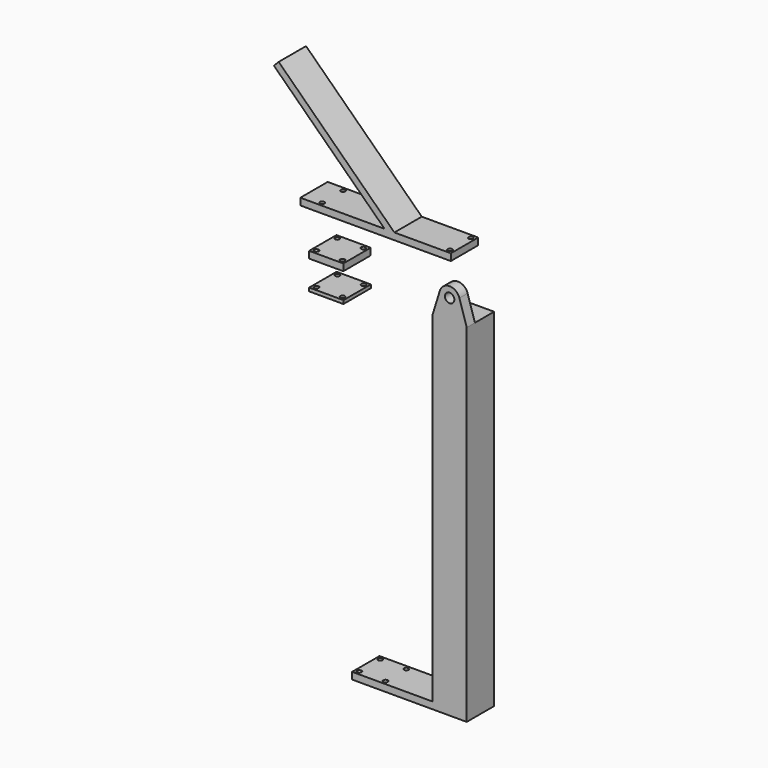
from build123d import *

# Parameters (mm, degrees)
F1_DEPTH  = 63.5
F3_R      = 8.3312
F4_DEPTH  = 25.401
F5_R      = 17.526
F6_DEPTH  = 38.1
F7_W      = 558.8
F7_H      = 25.4
F8_DEPTH  = 63.5
F9_R      = 8.3312
F10_DEPTH = 1512.3801652679
F12_DEPTH = 63.5
F13_W     = 127
F13_H     = 25.4
F14_DEPTH = 63.5
F13_H_2   = 12.7
F15_R     = 8.3312
F16_DEPTH = 161.036
F17_R     = 8.3312
F18_DEPTH = 25.4


with BuildPart() as f1:
    # F0 (on Front) → F1 (new body, symmetric)
    with BuildSketch(Plane.XZ):
        Polygon((0, 0), (-298.45, 0), (-298.45, -25.4), (127, -25.4), (127, 1263.65), (0, 1263.65), align=None)
    extrude(amount=F1_DEPTH, both=True)

    # F3 (on face) → F4 (cut, through all)
    with BuildSketch(Plane.XY):
        with Locations((-283.337, -48.387)):
            Circle(F3_R)
        with Locations((-186.563, -48.387)):
            Circle(F3_R)
        with Locations((-186.563, 48.387)):
            Circle(F3_R)
        with Locations((-283.337, 48.387)):
            Circle(F3_R)
    extrude(amount=-F4_DEPTH, mode=Mode.SUBTRACT)

    # F5 (on face) → F6 (join)
    with BuildSketch(Plane.XZ.offset(63.5)):
        with BuildLine():
            Line((127, 1263.65), (99.8927548056, 1351.1272956713))
            ThreePointArc((99.8927548056, 1351.1272956713), (63.5, 1377.95), (27.1072451944, 1351.1272956713))
            Line((27.1072451944, 1351.1272956713), (0, 1263.65))
            Line((0, 1263.65), (127, 1263.65))
        make_face()
        with Locations((63.5, 1339.85)):
            Circle(F5_R, mode=Mode.SUBTRACT)
    extrude(amount=-F6_DEPTH)


with BuildPart() as f8:
    # F7 (on Front) → F8 (new body, symmetric)
    with BuildSketch(Plane.XZ):
        with Locations((-211.3800937393, 1474.2791652679)):
            Rectangle(F7_W, F7_H)
    extrude(amount=F8_DEPTH, both=True)

    # F9 (on face) → F10 (cut, through all)
    with BuildSketch(Plane.XY.offset(1486.9791652679)):
        with Locations((-421.6920937393, -48.387)):
            Circle(F9_R)
        with Locations((52.9069062607, -48.387)):
            Circle(F9_R)
        with Locations((52.9069062607, 48.387)):
            Circle(F9_R)
        with Locations((-421.6920937393, 48.387)):
            Circle(F9_R)
    extrude(amount=-F10_DEPTH, mode=Mode.SUBTRACT)

    # F11 (on Front) → F12 (join, symmetric)
    with BuildSketch(Plane.XZ):
        Polygon((-571.1126877134, 1904.7805414024), (-588.8206813259, 1886.5710119681), (-151.7919749022, 1461.5791652679), (-134.0839812896, 1479.7886947023), align=None)
    extrude(amount=F12_DEPTH, both=True)


with BuildPart() as f14:
    # F13 (on Front) → F14 (new body, symmetric)
    with BuildSketch(Plane.XZ):
        with Locations((-394.595220685, 1311.2375096946)):
            Rectangle(F13_W, F13_H)
    extrude(amount=F14_DEPTH, both=True)

    # F15 (on face) → F16 (cut)
    with BuildSketch(Plane.XY.offset(1323.9375096946)):
        with Locations((-442.982220685, -48.387)):
            Circle(F15_R)
        with Locations((-442.982220685, 48.387)):
            Circle(F15_R)
        with Locations((-346.208220685, -48.387)):
            Circle(F15_R)
        with Locations((-346.208220685, 48.387)):
            Circle(F15_R)
    extrude(amount=-F16_DEPTH, mode=Mode.SUBTRACT)


with BuildPart() as f14b:
    # F13 (on Front) → F14, piece 2 (new body, symmetric)
    with BuildSketch(Plane.XZ):
        with Locations((-394.2314853668, 1197.7847410202)):
            Rectangle(F13_W, F13_H_2)
    extrude(amount=F14_DEPTH, both=True)

    # F17 (on face) → F18 (cut)
    with BuildSketch(Plane.XY.offset(1204.1347410202)):
        with Locations((-442.6184853668, -48.387)):
            Circle(F17_R)
        with Locations((-442.6184853668, 48.387)):
            Circle(F17_R)
        with Locations((-345.8444853668, -48.387)):
            Circle(F17_R)
        with Locations((-345.8444853668, 48.387)):
            Circle(F17_R)
    extrude(amount=-F18_DEPTH, mode=Mode.SUBTRACT)


solid = Compound([f1.part, f8.part, f14.part, f14b.part])
